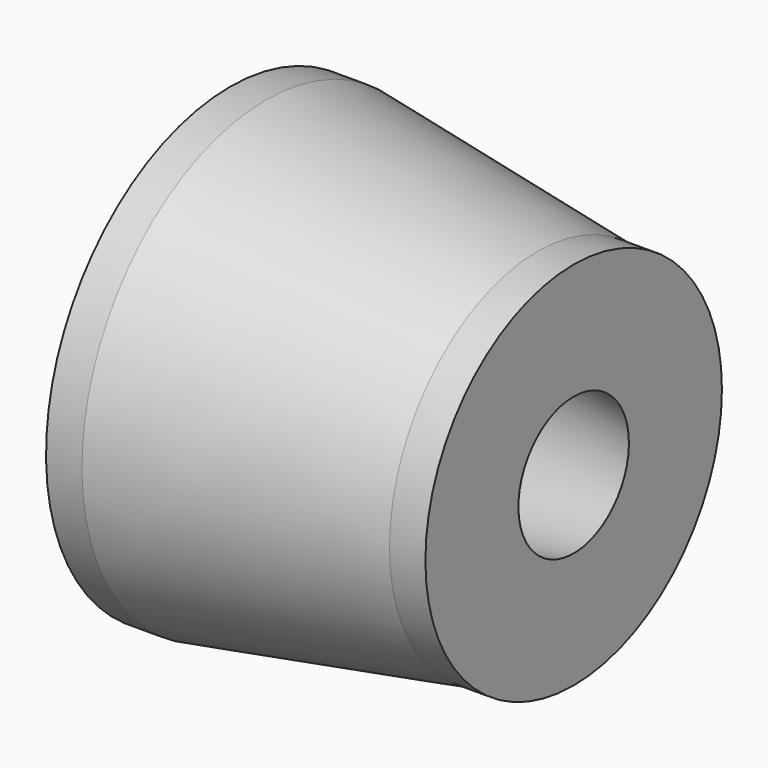
from build123d import *


with BuildPart() as f1:
    # F0 (on Front) → F1 (revolve)
    with BuildSketch(Plane.XZ):
        Polygon((-471.602678, 469.9), (-471.602678, 355.6), (499.76632, 195.2625), (499.76632, 309.5625), align=None)
        Polygon((-471.602678, 650.875), (-471.602678, 469.9), (499.76632, 309.5625), (499.76632, 524.078389), (398.16632, 524.078389), (-370.002678, 650.875), align=None)
    revolve(axis=Axis((3.405138, 0, 0), (1, 0, 0)))


solid = f1.part
